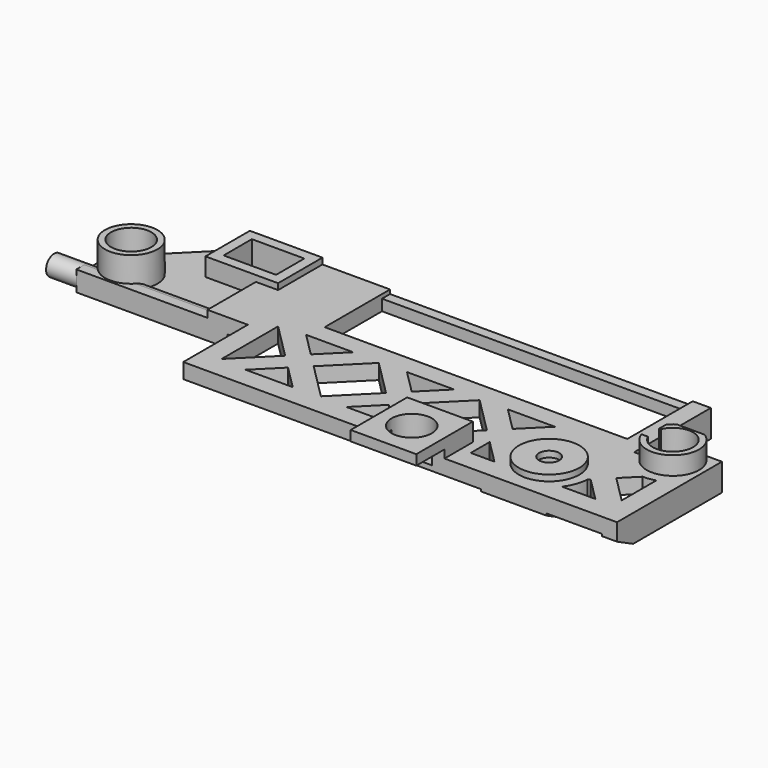
from build123d import *

# Parameters (mm, degrees)
BOX021_W                = 2
BOX021_H                = 15
BOX021_DEPTH            = 10
BOX021_PLACEMENT_ANGLE  = -45
BOX019_W                = 2
BOX019_H                = 15
BOX019_DEPTH            = 10
BOX019_PLACEMENT_ANGLE  = -45
BOX017_W                = 2
BOX017_H                = 15
BOX017_DEPTH            = 10
BOX017_PLACEMENT_ANGLE  = 45
BOX018_W                = 2
BOX018_H                = 15
BOX018_DEPTH            = 10
BOX018_PLACEMENT_ANGLE  = 45
BOX020_W                = 2
BOX020_H                = 15
BOX020_DEPTH            = 10
BOX020_PLACEMENT_ANGLE  = -45
BOX024_W                = 2
BOX024_H                = 15
BOX024_DEPTH            = 10
BOX024_PLACEMENT_ANGLE  = -45
BOX025_W                = 2
BOX025_H                = 15
BOX025_DEPTH            = 10
BOX025_PLACEMENT_ANGLE  = 45
BOX026_W                = 12
BOX026_H                = 7
BOX026_DEPTH            = 10
BOX026_PLACEMENT_ANGLE  = 45
BOX016_W                = 2
BOX016_H                = 15
BOX016_DEPTH            = 10
BOX016_PLACEMENT_ANGLE  = 45
CYLINDER009_R           = 3.6
CYLINDER009_DEPTH       = 10
CYLINDER010_R           = 4
CYLINDER010_DEPTH       = 10
BOX022_W                = 8.5
BOX022_H                = 8
BOX022_DEPTH            = 10
BOX023_W                = 39
BOX023_H                = 7.5
BOX023_DEPTH            = 10
BOX027_W                = 15
BOX027_H                = 10
BOX027_DEPTH            = 10
BOX027_PLACEMENT_ANGLE  = 45
CYLINDER004_R           = 2
CYLINDER004_DEPTH       = 2.8
BOX007_W                = 1.2
BOX007_H                = 10
BOX007_DEPTH            = 5
CYLINDER001_R           = 1
CYLINDER001_DEPTH       = 10
CYLINDER_R              = 2.25
CYLINDER_DEPTH          = 2.7
BOX009_W                = 5.2
BOX009_H                = 3.5
BOX009_DEPTH            = 3.3
BOX010_W                = 30
BOX010_H                = 7.1
BOX010_DEPTH            = 3
BOX011_W                = 30
BOX011_H                = 1
BOX011_DEPTH            = 2
BOX013_W                = 60
BOX013_H                = 10
BOX013_DEPTH            = 3.5
CYLINDER007_R           = 2
CYLINDER007_DEPTH       = 2.8
BOX014_W                = 7.2
BOX014_H                = 6.5
BOX014_DEPTH            = 5
BOX028_W                = 3
BOX028_H                = 1.6
BOX028_DEPTH            = 3
CYLINDER005_R           = 2
CYLINDER005_DEPTH       = 2.8
CYLINDER002_R           = 2.6
CYLINDER002_DEPTH       = 3
CYLINDER003_R           = 2.6
CYLINDER003_DEPTH       = 3
BOX008_W                = 7.2
BOX008_H                = 5.5
BOX008_DEPTH            = 2.1
CYLINDER006_R           = 3
CYLINDER006_DEPTH       = 0.6
BOX012_W                = 6.5
BOX012_H                = 7
BOX012_DEPTH            = 2.5
CYLINDER008_R           = 1
CYLINDER008_DEPTH       = 16
CYLINDER008_PITCH_ANGLE = 90
BOX015_W                = 13
BOX015_H                = 1
BOX015_DEPTH            = 2
BOX004_W                = 17
BOX004_H                = 8
BOX004_DEPTH            = 4
BOX001_W                = 31.5
BOX001_H                = 20
BOX001_DEPTH            = 1.2
BOX003_W                = 4.7
BOX003_H                = 10
BOX003_DEPTH            = 1.2
BOX002_W                = 5.5
BOX002_H                = 10
BOX002_DEPTH            = 1.2
BOX005_W                = 1.2
BOX005_H                = 10
BOX005_DEPTH            = 4
BOX006_W                = 13
BOX006_H                = 12
BOX006_DEPTH            = 3
PAD_DEPTH               = 100
BOX_W                   = 60
BOX_H                   = 19.5
BOX_DEPTH               = 2.7


with BuildPart() as cube021:
    # Box021 → Box021 (new body)
    with BuildSketch(Plane.XY):
        with Locations((1, 7.5)):
            Rectangle(BOX021_W, BOX021_H)
    extrude(amount=BOX021_DEPTH)


with BuildPart() as cube021_1:
    # Box021 placement: moved
    add(cube021.part.moved(Location((18, 1, 0))).rotate(Axis((18, 1, 0), (0, 0, 1)), BOX021_PLACEMENT_ANGLE))


with BuildPart() as cube019:
    # Box019 → Box019 (new body)
    with BuildSketch(Plane.XY):
        with Locations((1, 7.5)):
            Rectangle(BOX019_W, BOX019_H)
    extrude(amount=BOX019_DEPTH)


with BuildPart() as cube019_1:
    # Box019 placement: moved
    add(cube019.part.moved(Location((38, 1, 0))).rotate(Axis((38, 1, 0), (0, 0, 1)), BOX019_PLACEMENT_ANGLE))


with BuildPart() as cube017:
    # Box017 → Box017 (new body)
    with BuildSketch(Plane.XY):
        with Locations((1, 7.5)):
            Rectangle(BOX017_W, BOX017_H)
    extrude(amount=BOX017_DEPTH)


with BuildPart() as cube017_1:
    # Box017 placement: moved
    add(cube017.part.moved(Location((28, 0, 0))).rotate(Axis((28, 0, 0), (0, 0, 1)), BOX017_PLACEMENT_ANGLE))


with BuildPart() as cube018:
    # Box018 → Box018 (new body)
    with BuildSketch(Plane.XY):
        with Locations((1, 7.5)):
            Rectangle(BOX018_W, BOX018_H)
    extrude(amount=BOX018_DEPTH)


with BuildPart() as cube018_1:
    # Box018 placement: moved
    add(cube018.part.moved(Location((48, 0, 0))).rotate(Axis((48, 0, 0), (0, 0, 1)), BOX018_PLACEMENT_ANGLE))


with BuildPart() as cube020:
    # Box020 → Box020 (new body)
    with BuildSketch(Plane.XY):
        with Locations((1, 7.5)):
            Rectangle(BOX020_W, BOX020_H)
    extrude(amount=BOX020_DEPTH)


with BuildPart() as cube020_1:
    # Box020 placement: moved
    add(cube020.part.moved(Location((28, 1, 0))).rotate(Axis((28, 1, 0), (0, 0, 1)), BOX020_PLACEMENT_ANGLE))


with BuildPart() as cube024:
    # Box024 → Box024 (new body)
    with BuildSketch(Plane.XY):
        with Locations((1, 7.5)):
            Rectangle(BOX024_W, BOX024_H)
    extrude(amount=BOX024_DEPTH)


with BuildPart() as cube024_1:
    # Box024 placement: moved
    add(cube024.part.moved(Location((48, 1, 0))).rotate(Axis((48, 1, 0), (0, 0, 1)), BOX024_PLACEMENT_ANGLE))


with BuildPart() as cube025:
    # Box025 → Box025 (new body)
    with BuildSketch(Plane.XY):
        with Locations((1, 7.5)):
            Rectangle(BOX025_W, BOX025_H)
    extrude(amount=BOX025_DEPTH)


with BuildPart() as cube025_1:
    # Box025 placement: moved
    add(cube025.part.moved(Location((58, 0, 0))).rotate(Axis((58, 0, 0), (0, 0, 1)), BOX025_PLACEMENT_ANGLE))


with BuildPart() as cube026:
    # Box026 → Box026 (new body)
    with BuildSketch(Plane.XY):
        with Locations((6, 3.5)):
            Rectangle(BOX026_W, BOX026_H)
    extrude(amount=BOX026_DEPTH)


with BuildPart() as cube026_1:
    # Box026 placement: moved
    add(cube026.part.moved(Location((49, 1, 0))).rotate(Axis((49, 1, 0), (0, 0, 1)), BOX026_PLACEMENT_ANGLE))


with BuildPart() as fusion003:
    # Box016 → Box016 (new body)
    with BuildSketch(Plane.XY):
        with Locations((1, 7.5)):
            Rectangle(BOX016_W, BOX016_H)
    extrude(amount=BOX016_DEPTH)


with BuildPart() as fusion003_1:
    # Box016 placement: moved
    add(fusion003.part.moved(Location((38, 0, 0))).rotate(Axis((38, 0, 0), (0, 0, 1)), BOX016_PLACEMENT_ANGLE))

    # Fusion003: union Cube021, Cube019, Cube017, Cube018, Cube020, Cube024, Cube025, Cube026
    add(cube021_1.part)
    add(cube019_1.part)
    add(cube017_1.part)
    add(cube018_1.part)
    add(cube020_1.part)
    add(cube024_1.part)
    add(cube025_1.part)
    add(cube026_1.part)


with BuildPart() as fusion003_2:
    # Fusion003 placement: moved
    add(fusion003_1.part.moved(Location((0, 0.25, 0))))


with BuildPart() as cylinder009:
    # Cylinder009 → Cylinder009 (new body)
    with BuildSketch(Plane(origin=(56.9, 10.8, 0), x_dir=(1, 0, 0), z_dir=(0, 0, 1))):
        Circle(CYLINDER009_R)
    extrude(amount=CYLINDER009_DEPTH)


with BuildPart() as cylinder010:
    # Cylinder010 → Cylinder010 (new body)
    with BuildSketch(Plane(origin=(49.75, 4.4, 0), x_dir=(1, 0, 0), z_dir=(0, 0, 1))):
        Circle(CYLINDER010_R)
    extrude(amount=CYLINDER010_DEPTH)


with BuildPart() as fusion004:
    # Box022 → Box022 (new body)
    with BuildSketch(Plane(origin=(35.4, -3.5, 0), x_dir=(1, 0, 0), z_dir=(0, 0, 1))):
        with Locations((4.25, 4)):
            Rectangle(BOX022_W, BOX022_H)
    extrude(amount=BOX022_DEPTH)

    # Fusion004: union Fusion003, Cylinder009, Cylinder010
    add(fusion003_2.part)
    add(cylinder009.part)
    add(cylinder010.part)


with BuildPart() as cut002:
    # Box023 → Box023 (new body)
    with BuildSketch(Plane(origin=(19, 2, 0), x_dir=(1, 0, 0), z_dir=(0, 0, 1))):
        with Locations((19.5, 3.75)):
            Rectangle(BOX023_W, BOX023_H)
    extrude(amount=BOX023_DEPTH)

    # Cut002: cut Fusion004
    add(fusion004.part, mode=Mode.SUBTRACT)


with BuildPart() as fusion005:
    # Box027 → Box027 (new body)
    with BuildSketch(Plane.XY):
        with Locations((7.5, 5)):
            Rectangle(BOX027_W, BOX027_H)
    extrude(amount=BOX027_DEPTH)


with BuildPart() as fusion005_1:
    # Box027 placement: moved
    add(fusion005.part.moved(Location((0, 12, 0))).rotate(Axis((0, 12, 0), (0, 0, 1)), BOX027_PLACEMENT_ANGLE))

    # Fusion005: union Cut002
    add(cut002.part)


with BuildPart() as cylinder004:
    # Cylinder004 → Cylinder004 (new body)
    with BuildSketch(Plane(origin=(3.2, 10.8, 1.7), x_dir=(1, 0, 0), z_dir=(0, 0, 1))):
        Circle(CYLINDER004_R)
    extrude(amount=CYLINDER004_DEPTH)


with BuildPart() as cube007:
    # Box007 → Box007 (new body)
    with BuildSketch(Plane(origin=(53.7, 10, 0), x_dir=(1, 0, 0), z_dir=(0, 0, 1))):
        with Locations((0.6, 5)):
            Rectangle(BOX007_W, BOX007_H)
    extrude(amount=BOX007_DEPTH)


with BuildPart() as cylinder001:
    # Cylinder001 → Cylinder001 (new body)
    with BuildSketch(Plane(origin=(49.75, 4.4, 0), x_dir=(1, 0, 0), z_dir=(0, 0, 1))):
        Circle(CYLINDER001_R)
    extrude(amount=CYLINDER001_DEPTH)


with BuildPart() as cylinder:
    # Cylinder → Cylinder (new body)
    with BuildSketch(Plane(origin=(49.75, 4.4, 0), x_dir=(1, 0, 0), z_dir=(0, 0, 1))):
        Circle(CYLINDER_R)
    extrude(amount=CYLINDER_DEPTH)


with BuildPart() as cube009:
    # Box009 → Box009 (new body)
    with BuildSketch(Plane(origin=(9, 15, 0), x_dir=(1, 0, 0), z_dir=(0, 0, 1))):
        with Locations((2.6, 1.75)):
            Rectangle(BOX009_W, BOX009_H)
    extrude(amount=BOX009_DEPTH)


with BuildPart() as cube010:
    # Box010 → Box010 (new body)
    with BuildSketch(Plane(origin=(21.9, 11.4, 0), x_dir=(1, 0, 0), z_dir=(0, 0, 1))):
        with Locations((15, 3.55)):
            Rectangle(BOX010_W, BOX010_H)
    extrude(amount=BOX010_DEPTH)


with BuildPart() as cube011:
    # Box011 → Box011 (new body)
    with BuildSketch(Plane(origin=(21.9, 18.5, 2.3), x_dir=(1, 0, 0), z_dir=(0, 0, 1))):
        with Locations((15, 0.5)):
            Rectangle(BOX011_W, BOX011_H)
    extrude(amount=BOX011_DEPTH)


with BuildPart() as cube013:
    # Box013 → Box013 (new body)
    with BuildSketch(Plane(origin=(0, -10, 0), x_dir=(1, 0, 0), z_dir=(0, 0, 1))):
        with Locations((30, 5)):
            Rectangle(BOX013_W, BOX013_H)
    extrude(amount=BOX013_DEPTH)


with BuildPart() as cylinder007:
    # Cylinder007 → Cylinder007 (new body)
    with BuildSketch(Plane(origin=(39.65, 0, 1.7), x_dir=(1, 0, 0), z_dir=(0, 0, 1))):
        Circle(CYLINDER007_R)
    extrude(amount=CYLINDER007_DEPTH)


with BuildPart() as cube014:
    # Box014 → Box014 (new body)
    with BuildSketch(Plane(origin=(54, 13, 0), x_dir=(1, 0, 0), z_dir=(0, 0, 1))):
        with Locations((3.6, 3.25)):
            Rectangle(BOX014_W, BOX014_H)
    extrude(amount=BOX014_DEPTH)


with BuildPart() as cube028:
    # Box028 → Box028 (new body)
    with BuildSketch(Plane(origin=(53.9, 10, 1.7), x_dir=(1, 0, 0), z_dir=(0, 0, 1))):
        with Locations((1.5, 0.8)):
            Rectangle(BOX028_W, BOX028_H)
    extrude(amount=BOX028_DEPTH)


with BuildPart() as fusion002:
    # Cylinder005 → Cylinder005 (new body)
    with BuildSketch(Plane(origin=(56.9, 10.8, 1.7), x_dir=(1, 0, 0), z_dir=(0, 0, 1))):
        Circle(CYLINDER005_R)
    extrude(amount=CYLINDER005_DEPTH)

    # Fusion002: union Cylinder004, Cube007, Cylinder001, Cylinder, Cube009, Cube010, Cube011, Cube013, Cylinder007, Cube014, Cube028
    add(cylinder004.part)
    add(cube007.part)
    add(cylinder001.part)
    add(cylinder.part)
    add(cube009.part)
    add(cube010.part)
    add(cube011.part)
    add(cube013.part)
    add(cylinder007.part)
    add(cube014.part)
    add(cube028.part)


with BuildPart() as cylinder002:
    # Cylinder002 → Cylinder002 (new body)
    with BuildSketch(Plane(origin=(3.2, 10.8, 1.5), x_dir=(1, 0, 0), z_dir=(0, 0, 1))):
        Circle(CYLINDER002_R)
    extrude(amount=CYLINDER002_DEPTH)


with BuildPart() as cylinder003:
    # Cylinder003 → Cylinder003 (new body)
    with BuildSketch(Plane(origin=(56.9, 10.8, 1.5), x_dir=(1, 0, 0), z_dir=(0, 0, 1))):
        Circle(CYLINDER003_R)
    extrude(amount=CYLINDER003_DEPTH)


with BuildPart() as cube008:
    # Box008 → Box008 (new body)
    with BuildSketch(Plane(origin=(8, 14, 1.2), x_dir=(1, 0, 0), z_dir=(0, 0, 1))):
        with Locations((3.6, 2.75)):
            Rectangle(BOX008_W, BOX008_H)
    extrude(amount=BOX008_DEPTH)


with BuildPart() as cylinder006:
    # Cylinder006 → Cylinder006 (new body)
    with BuildSketch(Plane(origin=(49.75, 4.4, 2.7), x_dir=(1, 0, 0), z_dir=(0, 0, 1))):
        Circle(CYLINDER006_R)
    extrude(amount=CYLINDER006_DEPTH)


with BuildPart() as cube012:
    # Box012 → Box012 (new body)
    with BuildSketch(Plane(origin=(36.4, -3.5, 2), x_dir=(1, 0, 0), z_dir=(0, 0, 1))):
        with Locations((3.25, 3.5)):
            Rectangle(BOX012_W, BOX012_H)
    extrude(amount=BOX012_DEPTH)


with BuildPart() as cylinder008:
    # Cylinder008 → Cylinder008 (new body)
    with BuildSketch(Plane.XY):
        Circle(CYLINDER008_R)
    extrude(amount=CYLINDER008_DEPTH)


with BuildPart() as cylinder008_1:
    # Cylinder008 pitch: moved
    add(cylinder008.part.rotate(Axis((0, 0, 0), (0, 1, 0)), CYLINDER008_PITCH_ANGLE))


with BuildPart() as cylinder008_2:
    # Cylinder008 placement: moved
    add(cylinder008_1.part.moved(Location((-3, 9, 1))))


with BuildPart() as cube015:
    # Box015 → Box015 (new body)
    with BuildSketch(Plane(origin=(0, 8, 0), x_dir=(1, 0, 0), z_dir=(0, 0, 1))):
        with Locations((6.5, 0.5)):
            Rectangle(BOX015_W, BOX015_H)
    extrude(amount=BOX015_DEPTH)


with BuildPart() as cube004:
    # Box004 → Box004 (new body)
    with BuildSketch(Plane.XY):
        with Locations((8.5, 4)):
            Rectangle(BOX004_W, BOX004_H)
    extrude(amount=BOX004_DEPTH)


with BuildPart() as cube001:
    # Box001 → Box001 (new body)
    with BuildSketch(Plane(origin=(15, 0, 0), x_dir=(1, 0, 0), z_dir=(0, 0, 1))):
        with Locations((15.75, 10)):
            Rectangle(BOX001_W, BOX001_H)
    extrude(amount=BOX001_DEPTH)


with BuildPart() as cube003:
    # Box003 → Box003 (new body)
    with BuildSketch(Plane(origin=(46, 10, 0), x_dir=(1, 0, 0), z_dir=(0, 0, 1))):
        with Locations((2.35, 5)):
            Rectangle(BOX003_W, BOX003_H)
    extrude(amount=BOX003_DEPTH)


with BuildPart() as cube002:
    # Box002 → Box002 (new body)
    with BuildSketch(Plane(origin=(53, 0, 0), x_dir=(1, 0, 0), z_dir=(0, 0, 1))):
        with Locations((2.75, 5)):
            Rectangle(BOX002_W, BOX002_H)
    extrude(amount=BOX002_DEPTH)


with BuildPart() as cube005:
    # Box005 → Box005 (new body)
    with BuildSketch(Plane(origin=(53.7, 10, 0), x_dir=(1, 0, 0), z_dir=(0, 0, 1))):
        with Locations((0.6, 5)):
            Rectangle(BOX005_W, BOX005_H)
    extrude(amount=BOX005_DEPTH)


with BuildPart() as cube006:
    # Box006 → Box006 (new body)
    with BuildSketch(Plane(origin=(0, 8, 1.5), x_dir=(1, 0, 0), z_dir=(0, 0, 1))):
        with Locations((6.5, 6)):
            Rectangle(BOX006_W, BOX006_H)
    extrude(amount=BOX006_DEPTH)


with BuildPart() as fusion:
    # Sketch → Pad (new body)
    with BuildSketch(Plane.YZ):
        Polygon((0, 0), (2, 0), (0, 1), align=None)
    extrude(amount=PAD_DEPTH)

    # Fusion: union Cube004, Cube001, Cube003, Cube002, Cube005, Cube006
    add(cube004.part)
    add(cube001.part)
    add(cube003.part)
    add(cube002.part)
    add(cube005.part)
    add(cube006.part)


with BuildPart() as cut003:
    # Box → Box (new body)
    with BuildSketch(Plane.XY):
        with Locations((30, 9.75)):
            Rectangle(BOX_W, BOX_H)
    extrude(amount=BOX_DEPTH)

    # Cut: cut Fusion
    add(fusion.part, mode=Mode.SUBTRACT)

    # Fusion001: union Cylinder002, Cylinder003, Cube008, Cylinder006, Cube012, Cylinder008, Cube015
    add(cylinder002.part)
    add(cylinder003.part)
    add(cube008.part)
    add(cylinder006.part)
    add(cube012.part)
    add(cylinder008_2.part)
    add(cube015.part)

    # Cut001: cut Fusion002
    add(fusion002.part, mode=Mode.SUBTRACT)

    # Cut003: cut Fusion005
    add(fusion005_1.part, mode=Mode.SUBTRACT)


solid = cut003.part
